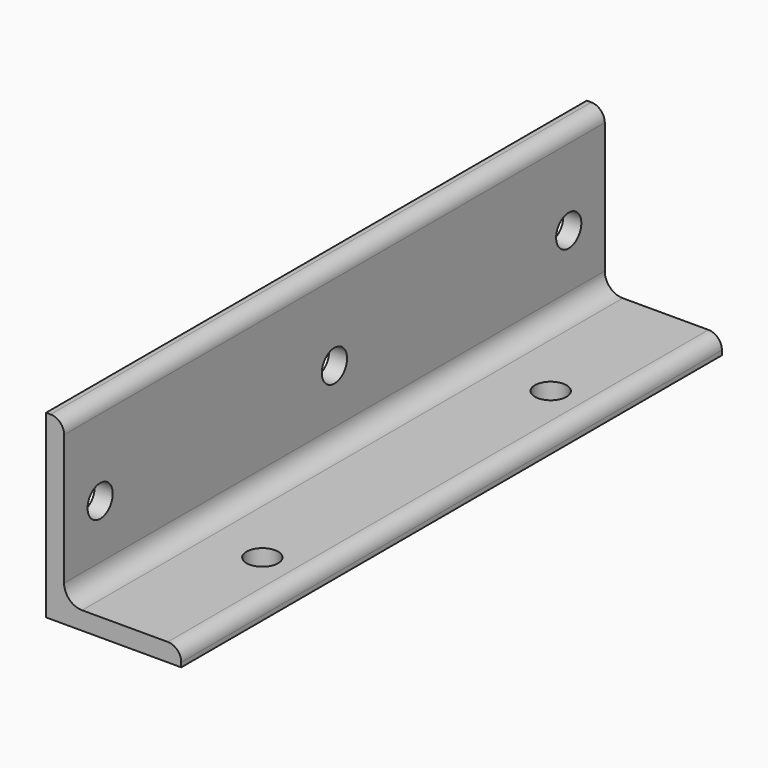
from build123d import *

# Parameters (mm, degrees)
F1_DEPTH = 300
F2_R     = 7
F3_DEPTH = 25
F4_R     = 7
F5_DEPTH = 25


with BuildPart() as f1:
    # F0 (on Front) → F1 (new body)
    with BuildSketch(Plane.XZ):
        with BuildLine():
            Line((-60, 0), (0, 0))
            Line((0, 0), (0, 2))
            ThreePointArc((0, 2), (-1.757359, 6.242641), (-6, 8))
            Line((-6, 8), (-44, 8))
            ThreePointArc((-44, 8), (-49.656854, 10.343146), (-52, 16))
            Line((-52, 16), (-52, 74))
            ThreePointArc((-52, 74), (-53.757359, 78.242641), (-58, 80))
            Line((-58, 80), (-60, 80))
            Line((-60, 80), (-60, 0))
        make_face()
    extrude(amount=F1_DEPTH)

    # F2 (on face) → F3 (cut)
    with BuildSketch(Plane(origin=(-60, 0, 0), x_dir=(0, -1, 0), z_dir=(-1, 0, 0))):
        with Locations((20, 40)):
            Circle(F2_R)
        with Locations((150, 40)):
            Circle(F2_R)
        with Locations((280, 40)):
            Circle(F2_R)
    extrude(amount=-F3_DEPTH, mode=Mode.SUBTRACT)

    # F4 (on face) → F5 (cut)
    with BuildSketch(Plane(origin=(0, 0, 0), x_dir=(1, 0, 0), z_dir=(0, 0, -1))):
        with Locations((-20, 70)):
            Circle(F4_R)
        with Locations((-20, 230)):
            Circle(F4_R)
    extrude(amount=-F5_DEPTH, mode=Mode.SUBTRACT)


solid = f1.part
